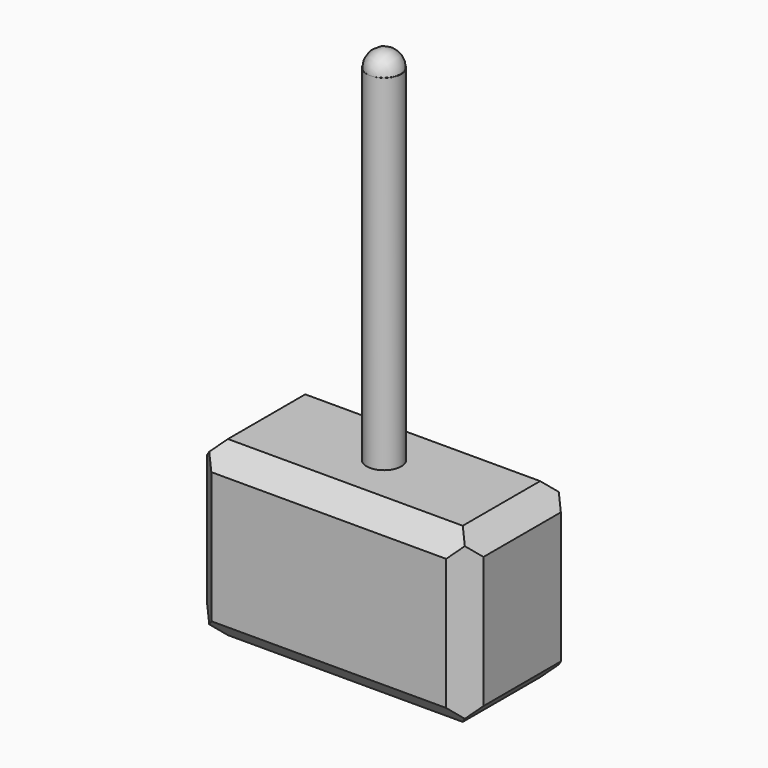
from build123d import *

# Parameters (mm, degrees)
F0_W     = 50.8
F0_H     = 25.4
F1_DEPTH = 31.75
F2_R     = 3.175
F3_DEPTH = 63.5
F4_SIZE  = 3.81
F5_SIZE  = 3.81
F6_SIZE  = 3.81


with BuildPart() as f1:
    # F0 (on Top) → F1 (new body)
    with BuildSketch(Plane.XY):
        Rectangle(F0_W, F0_H)
    extrude(amount=F1_DEPTH)

    # F2 (on face) → F3 (join)
    with BuildSketch(Plane.XY.offset(31.75)):
        Circle(F2_R)
    extrude(amount=F3_DEPTH)

    # F4
    f4_edges = [f1.edges().sort_by_distance(p)[0] for p in [
        (0, -12.7, 0),
        (0, 12.7, 0),
        (0, 12.7, 31.75),
        (0, -12.7, 31.75),
        (-25.4, 0, 31.75),
        (-25.4, 0, 0),
        (25.4, 0, 0),
    ]]
    chamfer(f4_edges, length=F4_SIZE)

    # F5
    f5_edges = [f1.edges().sort_by_distance(p)[0] for p in [
        (25.4, -12.7, 15.875),
        (-25.4, 12.7, 15.875),
        (25.4, 12.7, 15.875),
        (-25.4, -12.7, 15.875),
    ]]
    chamfer(f5_edges, length=F5_SIZE)

    # F6
    f6_edges = [f1.edges().sort_by_distance(p)[0] for p in [
        (25.4, 0, 31.75),
    ]]
    chamfer(f6_edges, length=F6_SIZE)

    # F7 (on face) → F8 (revolve)
    with BuildSketch(Plane.XY.offset(95.25)):
        with BuildLine():
            Line((0, 3.175), (0, -3.175))
            ThreePointArc((0, -3.175), (3.110812, 0), (0, 3.175))
        make_face()
    revolve(axis=Axis((0, 0, 95.25), (0, -1, 0)))


solid = f1.part
